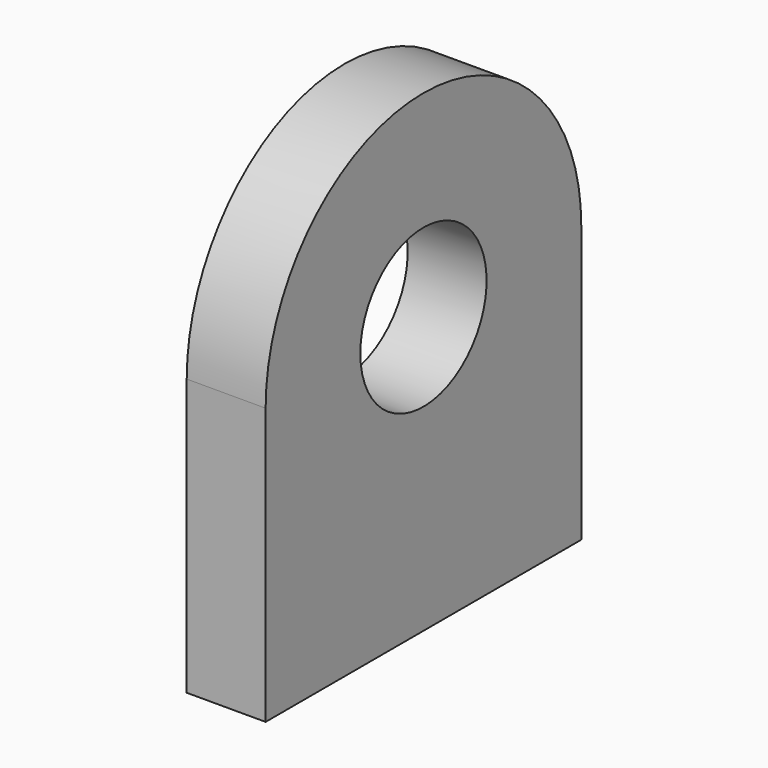
from build123d import *

# Parameters (mm, degrees)
F1_DEPTH = 3.175


with BuildPart() as f1:
    # F0 (on Right) → F1 (new body)
    with BuildSketch(Plane.YZ):
        with BuildLine():
            Line((0, 11.1125), (0, 0))
            Line((0, 0), (15.875, 0))
            Line((15.875, 0), (15.875, 11.1125))
            ThreePointArc((15.875, 11.1125), (7.9375, 3.175), (0, 11.1125))
        make_face()
        with BuildLine():
            ThreePointArc((15.875, 11.1125), (7.9375, 19.05), (0, 11.1125))
            Line((0, 11.1125), (4.7625, 11.1125))
            ThreePointArc((4.7625, 11.1125), (7.9375, 14.2875), (11.1125, 11.1125))
            Line((11.1125, 11.1125), (15.875, 11.1125))
        make_face()
        with BuildLine():
            Line((4.7625, 11.1125), (0, 11.1125))
            ThreePointArc((0, 11.1125), (7.9375, 3.175), (15.875, 11.1125))
            Line((15.875, 11.1125), (11.1125, 11.1125))
            ThreePointArc((11.1125, 11.1125), (7.9375, 7.9375), (4.7625, 11.1125))
        make_face()
    extrude(amount=F1_DEPTH)


solid = f1.part
